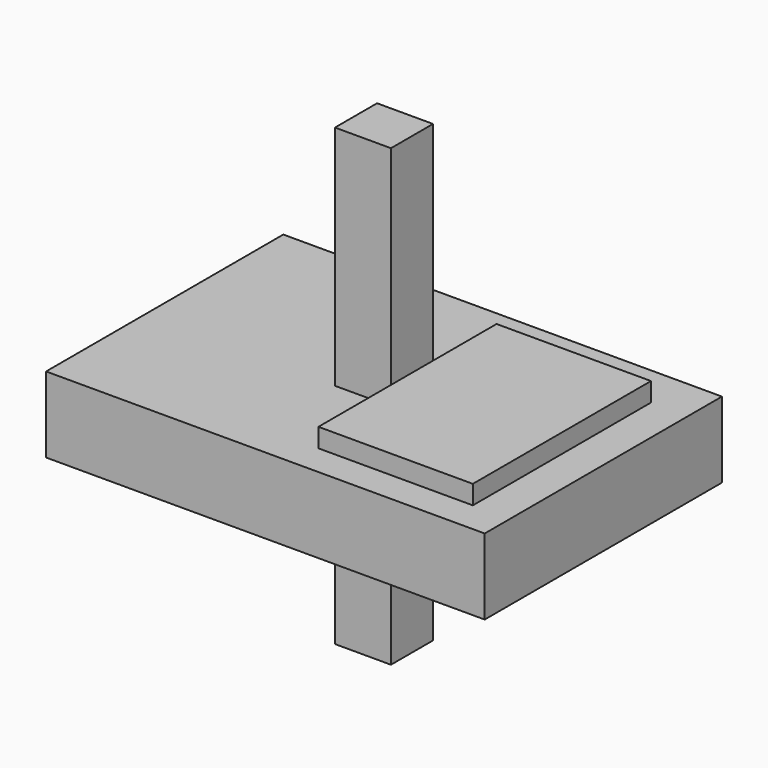
from build123d import *

# Parameters (mm, degrees)
F0_W     = 147.001236
F0_H     = 99.37583
F1_DEPTH = 25.4
F0_W_2   = 18.750162
F0_H_2   = 17.62514
F2_DEPTH = 76.2
F3_DEPTH = 6.35


with BuildPart() as f1:
    # F0 (on Top) → F1 (new body)
    with BuildSketch(Plane.XY):
        Rectangle(F0_W, F0_H)
        Polygon((9.375081, -39.187826), (9.375081, -8.81257), (-9.375081, -8.81257), (-9.375081, 8.81257), (9.375081, 8.81257), (9.375081, 35.4378), (61.125513, 35.4378), (61.125513, -39.187826), align=None, mode=Mode.SUBTRACT)
        Polygon((9.375081, 8.81257), (9.375081, -8.81257), (9.375081, -39.187826), (61.125513, -39.187826), (61.125513, 35.4378), (9.375081, 35.4378), align=None)
    extrude(amount=-F1_DEPTH)


with BuildPart() as f2:
    # F0 (on Top) → F2 (new body, symmetric)
    with BuildSketch(Plane.XY):
        Rectangle(F0_W_2, F0_H_2)
    extrude(amount=F2_DEPTH, both=True)


with BuildPart() as f3:
    # F0 (on Top) → F3 (new body)
    with BuildSketch(Plane.XY):
        Polygon((9.375081, 8.81257), (9.375081, -8.81257), (9.375081, -39.187826), (61.125513, -39.187826), (61.125513, 35.4378), (9.375081, 35.4378), align=None)
    extrude(amount=F3_DEPTH)


solid = Compound([f1.part, f2.part, f3.part])
